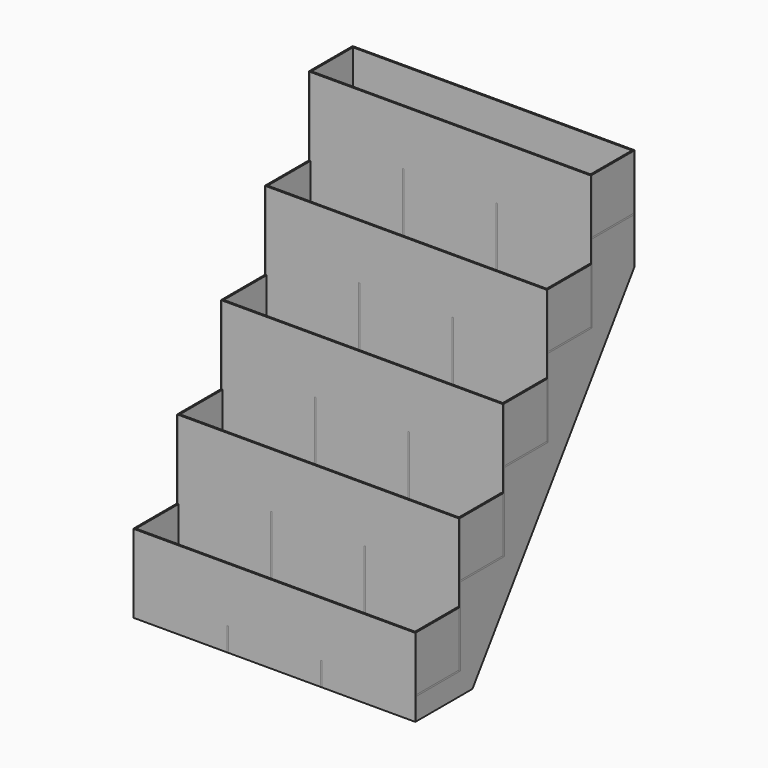
from build123d import *

# Parameters (mm, degrees)
F2_DEPTH  = 5
F3_W      = 177.8
F3_H      = 5
F4_DEPTH  = 914.4
F6_W      = 5
F6_H      = 436.8
F7_DEPTH  = 914.4
F12_W     = 5
F12_H     = 254
F13_DEPTH = 914.4
F14_W     = 5
F14_H     = 330.8272054958
F15_DEPTH = 914.4
F17_DEPTH = 5


with BuildPart() as f2:
    # F1 (on Right) → F2 (new body)
    with BuildSketch(Plane.YZ):
        Polygon((-436.817295532, -403.4125177344), (-436.817295532, -657.4125177344), (-205.4331659253, -657.4125177344), (452.182704468, 281.7602767697), (452.182704468, 612.5874822656), (274.382704468, 612.5874822656), (274.382704468, 358.5874822656), (96.582704468, 358.5874822656), (96.582704468, 104.5874822656), (-81.217295532, 104.5874822656), (-81.217295532, -149.4125177344), (-259.017295532, -149.4125177344), (-259.017295532, -403.4125177344), align=None)
    extrude(amount=F2_DEPTH)


with BuildPart() as f4:
    # F3 (on face) → F4 (new body)
    with BuildSketch(Plane.YZ.offset(5)):
        with Locations((363.282704468, 432.2874822656)):
            Rectangle(F3_W, F3_H)
    extrude(amount=-F4_DEPTH)


with BuildPart() as f5_1:
    # F5: copy of F4
    add(f4.part.moved(Location((0, -177.8, -254))))


with BuildPart() as f7:
    # F6 (on face) → F7 (new body)
    with BuildSketch(Plane.YZ.offset(5)):
        with Locations((276.882704468, 394.1874822656)):
            Rectangle(F6_W, F6_H)
    extrude(amount=-F7_DEPTH)


with BuildPart() as f8_1:
    # F8: copy of F5_1
    add(f5_1.part.moved(Location((0, -177.8, -254))))


with BuildPart() as f8_2:
    # F8: copy of F7
    add(f7.part.moved(Location((0, -177.8, -254))))


with BuildPart() as f9_1:
    # F9: copy of F8_1
    add(f8_1.part.moved(Location((0, -177.8, -254))))


with BuildPart() as f9_2:
    # F9: copy of F8_2
    add(f8_2.part.moved(Location((0, -177.8, -254))))


with BuildPart() as f10_1:
    # F10: copy of F9_1
    add(f9_1.part.moved(Location((0, -177.8, -254))))


with BuildPart() as f10_2:
    # F10: copy of F9_2
    add(f9_2.part.moved(Location((0, -177.8, -254))))


with BuildPart() as f11_1:
    # F11: copy of F2
    add(f2.part.moved(Location((-909.4, 0, 0))))


with BuildPart() as f13:
    # F12 (on face) → F13 (new body)
    with BuildSketch(Plane.YZ.offset(5)):
        with Locations((-434.317295532, -530.4125177344)):
            Rectangle(F12_W, F12_H)
    extrude(amount=-F13_DEPTH)


with BuildPart() as f15:
    # F14 (on face) → F15 (new body)
    with BuildSketch(Plane.YZ.offset(5)):
        with Locations((449.682704468, 447.1738795177)):
            Rectangle(F14_W, F14_H)
    extrude(amount=-F15_DEPTH)


with BuildPart() as f17:
    # F16 (on face) → F17 (new body)
    with BuildSketch(Plane.YZ.offset(5)):
        Polygon((-436.817295532, -581.2125289917), (-436.817295532, -657.4125289917), (-205.4331659253, -657.4125289917), (452.182704468, 281.7602655125), (452.182704468, 434.7874710083), (274.382704468, 434.7874710083), (274.382704468, 358.5874822656), (274.382704468, 180.7874710083), (96.582704468, 180.7874710083), (96.582704468, 104.5874822656), (96.582704468, -73.2125289917), (-81.217295532, -73.2125289917), (-81.217295532, -149.4125177344), (-81.217295532, -327.2125289917), (-259.017295532, -327.2125289917), (-259.017295532, -403.4125177344), (-259.017295532, -581.2125289917), align=None)
    extrude(amount=-F17_DEPTH)


with BuildPart() as f17_1:
    # F18: moved
    add(f17.part.moved(Location((-303.1335, 0, 0))))


with BuildPart() as f19_1:
    # F19: copy of F17
    add(f17_1.part.moved(Location((-303.1335, 0, 0))))


solid = Compound([f2.part, f4.part, f5_1.part, f7.part, f8_1.part, f8_2.part, f9_1.part, f9_2.part, f10_1.part, f10_2.part, f11_1.part, f13.part, f15.part, f17_1.part, f19_1.part])
